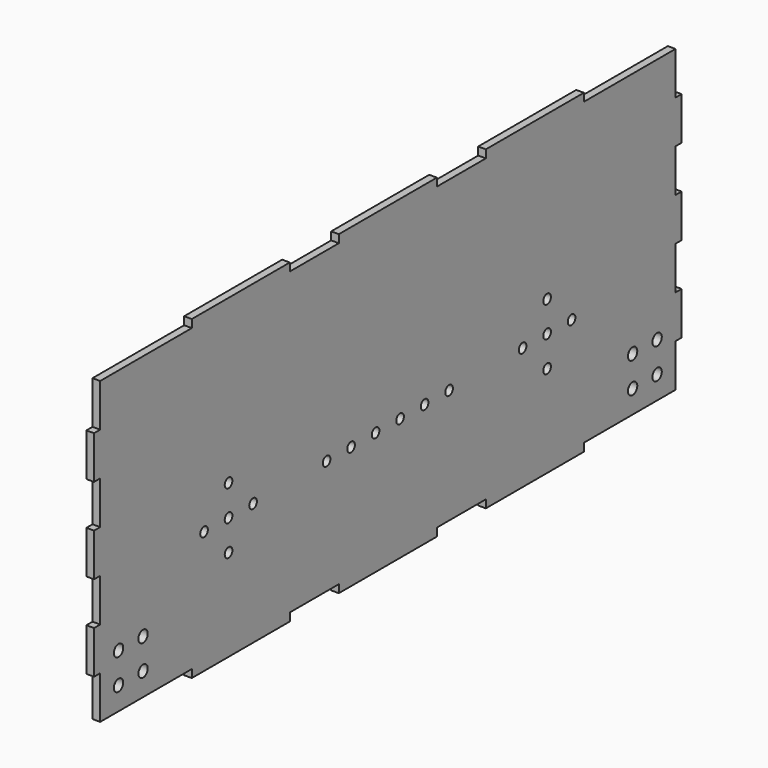
from build123d import *

# Parameters (mm, degrees)
F0_R     = 2.424029
F0_R_2   = 1.984375
F1_DEPTH = 3.175


with BuildPart() as f1:
    # F0 (on Right) → F1 (new body)
    with BuildSketch(Plane.YZ):
        Polygon((-101.6, -81.478684), (-50.8, -81.478684), (-50.8, -78.176684), (-25.4, -78.176684), (-25.4, -81.478684), (25.4, -81.478684), (25.4, -78.176684), (50.8, -78.176684), (50.8, -81.478684), (101.6, -81.478684), (101.6, -78.176684), (149.098, -78.176684), (149.098, -60.396684), (152.273, -60.396684), (152.273, -42.616684), (149.098, -42.616684), (149.098, -24.836684), (152.273, -24.836684), (152.273, -7.056684), (149.098, -7.056684), (149.098, 10.723316), (152.273, 10.723316), (152.273, 28.503316), (149.098, 28.503316), (149.098, 46.283316), (101.6, 46.283316), (101.6, 49.585316), (50.8, 49.585316), (50.8, 46.283316), (25.4, 46.283316), (25.4, 49.585316), (-25.4, 49.585316), (-25.4, 46.283316), (-50.8, 46.283316), (-50.8, 49.585316), (-101.6, 49.585316), (-101.6, 46.283316), (-149.098, 46.283316), (-149.098, 28.503316), (-152.273, 28.503316), (-152.273, 10.723316), (-149.098, 10.723316), (-149.098, -7.056684), (-152.273, -7.056684), (-152.273, -24.836684), (-149.098, -24.836684), (-149.098, -42.616684), (-152.273, -42.616684), (-152.273, -60.396684), (-149.098, -60.396684), (-149.098, -78.176684), (-101.6, -78.176684), align=None)
        with Locations((-139.573, -68.651684)):
            Circle(F0_R, mode=Mode.SUBTRACT)
        with Locations((-126.873, -68.651684)):
            Circle(F0_R, mode=Mode.SUBTRACT)
        with Locations((-139.573, -55.951684)):
            Circle(F0_R, mode=Mode.SUBTRACT)
        with Locations((-126.873, -55.951684)):
            Circle(F0_R, mode=Mode.SUBTRACT)
        with Locations((-82.55, -43.378684)):
            Circle(F0_R_2, mode=Mode.SUBTRACT)
        with Locations((-95.25, -30.678684)):
            Circle(F0_R_2, mode=Mode.SUBTRACT)
        with Locations((-82.55, -30.678684)):
            Circle(F0_R_2, mode=Mode.SUBTRACT)
        with Locations((-82.55, -17.978684)):
            Circle(F0_R_2, mode=Mode.SUBTRACT)
        with Locations((-69.85, -30.678684)):
            Circle(F0_R_2, mode=Mode.SUBTRACT)
        with Locations((-31.75, -30.678684)):
            Circle(F0_R_2, mode=Mode.SUBTRACT)
        with Locations((-19.05, -30.678684)):
            Circle(F0_R_2, mode=Mode.SUBTRACT)
        with Locations((-6.35, -30.678684)):
            Circle(F0_R_2, mode=Mode.SUBTRACT)
        with Locations((126.873, -68.651684)):
            Circle(F0_R, mode=Mode.SUBTRACT)
        with Locations((139.573, -68.651684)):
            Circle(F0_R, mode=Mode.SUBTRACT)
        with Locations((126.873, -55.951684)):
            Circle(F0_R, mode=Mode.SUBTRACT)
        with Locations((139.573, -55.951684)):
            Circle(F0_R, mode=Mode.SUBTRACT)
        with Locations((6.35, -30.678684)):
            Circle(F0_R_2, mode=Mode.SUBTRACT)
        with Locations((19.05, -30.678684)):
            Circle(F0_R_2, mode=Mode.SUBTRACT)
        with Locations((31.75, -30.678684)):
            Circle(F0_R_2, mode=Mode.SUBTRACT)
        with Locations((69.85, -30.678684)):
            Circle(F0_R_2, mode=Mode.SUBTRACT)
        with Locations((82.55, -43.378684)):
            Circle(F0_R_2, mode=Mode.SUBTRACT)
        with Locations((82.55, -30.678684)):
            Circle(F0_R_2, mode=Mode.SUBTRACT)
        with Locations((95.25, -30.678684)):
            Circle(F0_R_2, mode=Mode.SUBTRACT)
        with Locations((82.55, -17.978684)):
            Circle(F0_R_2, mode=Mode.SUBTRACT)
    extrude(amount=F1_DEPTH)


solid = f1.part
